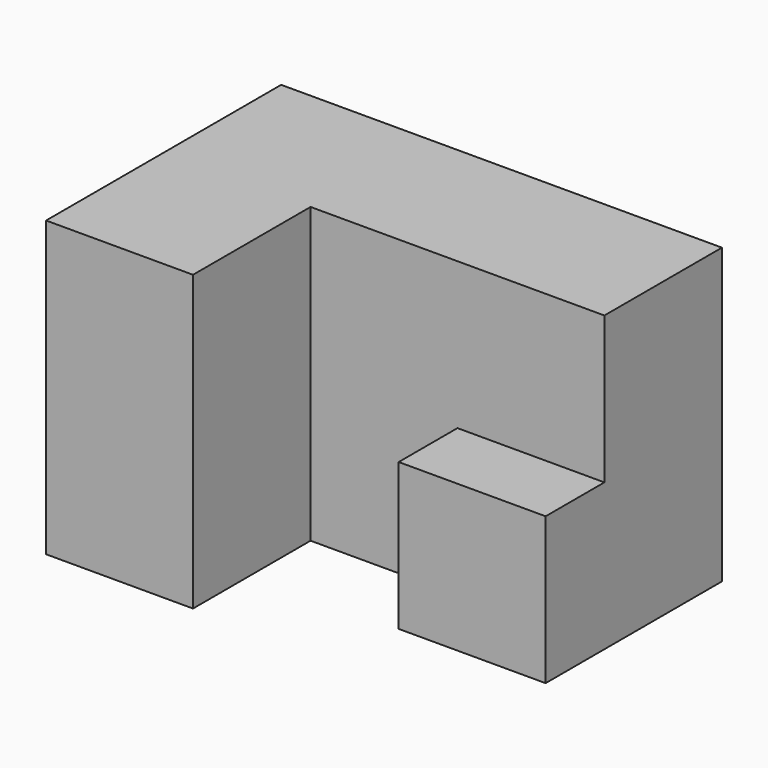
from build123d import *

# Parameters (mm, degrees)
F1_DEPTH = 25.4
F2_W     = 12.7
F2_H     = 12.7
F3_DEPTH = 6.35


with BuildPart() as f1:
    # F0 (on Top) → F1 (new body)
    with BuildSketch(Plane.XY):
        Polygon((0, 25.4), (0, 0), (12.7, 0), (12.7, 12.7), (38.1, 12.7), (38.1, 25.4), align=None)
    extrude(amount=F1_DEPTH)

    # F2 (on face) → F3 (join)
    with BuildSketch(Plane.XZ.offset(-12.7)):
        with Locations((31.75, 6.35)):
            Rectangle(F2_W, F2_H)
    extrude(amount=F3_DEPTH)


solid = f1.part
